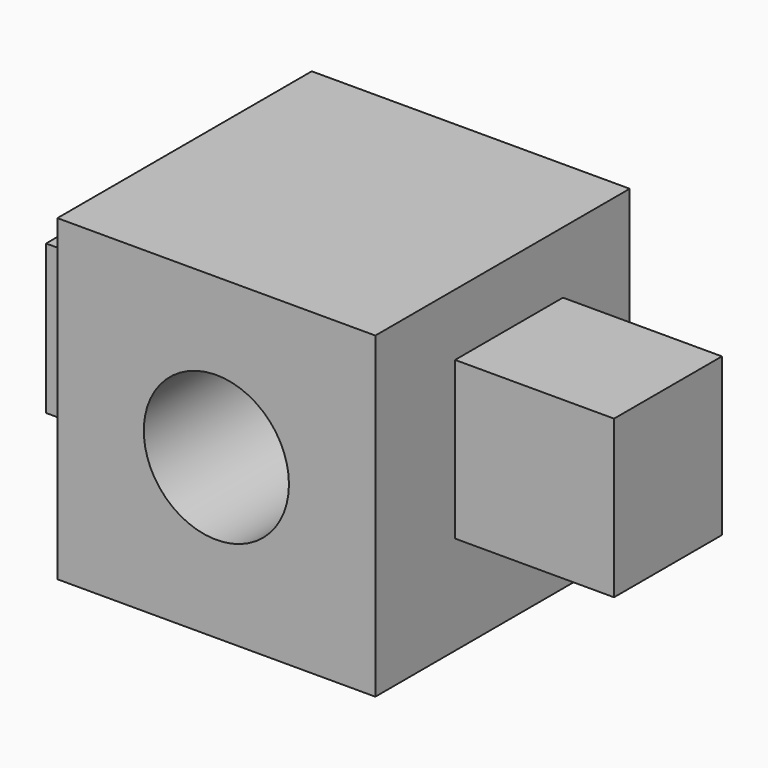
from build123d import *

# Parameters (mm, degrees)
F0_W     = 50.8
F0_H     = 50.8
F0_R     = 11.596752
F1_DEPTH = 50.8
F2_W     = 21.541153
F2_H     = 25.131345
F3_DEPTH = 25.4
F4_W     = 21.284714
F4_H     = 23.849137
F5_DEPTH = 12.7


with BuildPart() as f1:
    # F0 (on Front) → F1 (new body)
    with BuildSketch(Plane.XZ):
        with Locations((-25.4, 25.4)):
            Rectangle(F0_W, F0_H)
        with Locations((-25.4, 25.4)):
            Circle(F0_R, mode=Mode.SUBTRACT)
    extrude(amount=F1_DEPTH)

    # F2 (on face) → F3 (join)
    with BuildSketch(Plane.YZ):
        with Locations((-24.105576, 28.336875)):
            Rectangle(F2_W, F2_H)
    extrude(amount=F3_DEPTH)

    # F4 (on face) → F5 (join)
    with BuildSketch(Plane(origin=(-50.8, 0, 0), x_dir=(0, -1, 0), z_dir=(-1, 0, 0))):
        with Locations((26.541781, 25.644231)):
            Rectangle(F4_W, F4_H)
    extrude(amount=F5_DEPTH)


solid = f1.part
